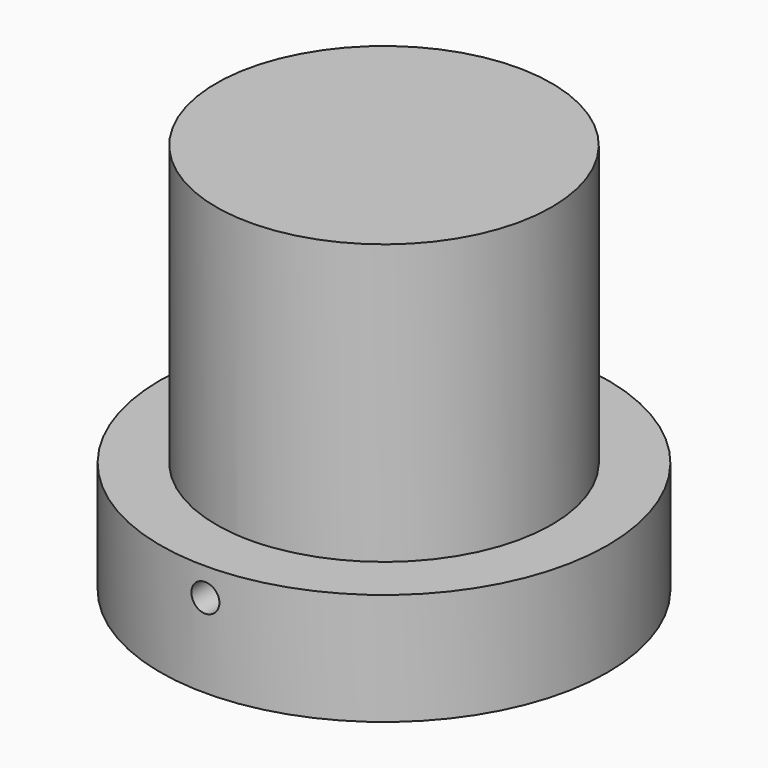
from build123d import *

# Parameters (mm, degrees)
F0_R     = 50.8
F1_DEPTH = 25.4
F2_R     = 38.1
F3_DEPTH = 12.7
F5_R     = 38.1
F6_DEPTH = 76.2
F4_R     = 3.175
F7_DEPTH = 50.8


with BuildPart() as f1:
    # F0 (on Top) → F1 (new body)
    with BuildSketch(Plane.XY):
        Circle(F0_R)
    extrude(amount=F1_DEPTH)

    # F2 (on face) → F3 (cut)
    with BuildSketch(Plane.XY.offset(25.4)):
        Circle(F2_R)
    extrude(amount=-F3_DEPTH, mode=Mode.SUBTRACT)


with BuildPart() as f6:
    # F5 (on face) → F6 (new body)
    with BuildSketch(Plane.XY.offset(12.7)):
        Circle(F5_R)
    extrude(amount=F6_DEPTH)


with BuildPart() as f7_tool:
    # F4 (on Front) → F7 (new body, symmetric)
    with BuildSketch(Plane.XZ):
        with Locations((0, 19.05)):
            Circle(F4_R)
    extrude(amount=F7_DEPTH, both=True)


with BuildPart() as f1_1:
    add(f1.part)

    # F7: cut by f7_tool
    add(f7_tool.part, mode=Mode.SUBTRACT)


with BuildPart() as f6_1:
    add(f6.part)

    # F7: cut by f7_tool
    add(f7_tool.part, mode=Mode.SUBTRACT)


solid = Compound([f1_1.part, f6_1.part])
